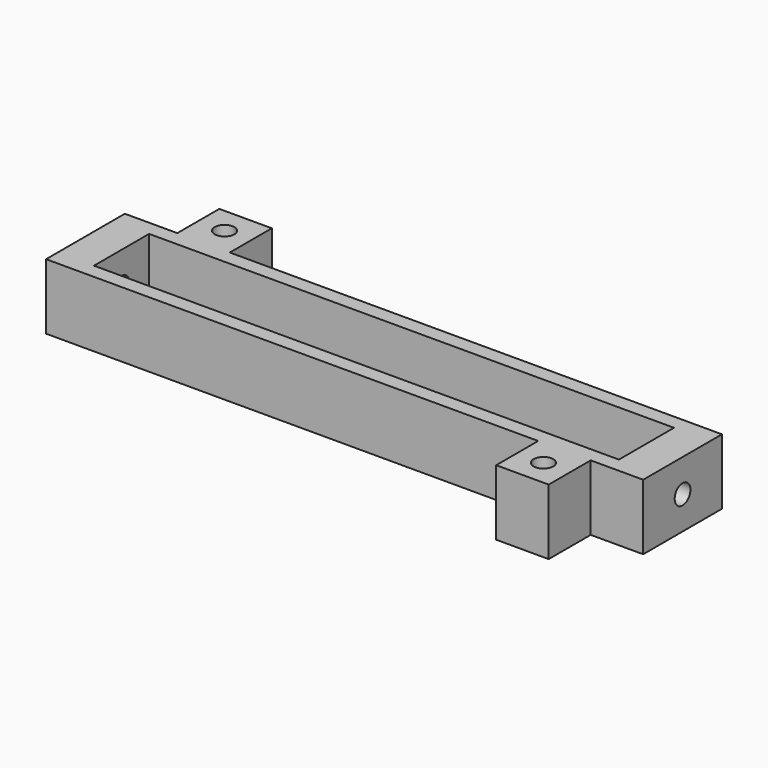
from build123d import *

# Parameters (mm, degrees)
PAD007_DEPTH    = 10
SKETCH016_R     = 1.5
SKETCH016_W     = 80
SKETCH016_H     = 10.5
POCKET008_DEPTH = 7
SKETCH017_W     = 9.5
SKETCH017_H     = 9.5
POCKET009_DEPTH = 2
SKETCH018_W     = 6
SKETCH018_H     = 6
POCKET010_DEPTH = 5
SKETCH019_R     = 1.5
POCKET011_DEPTH = 6
SKETCH020_R     = 1.5
POCKET012_DEPTH = 6


with BuildPart() as part:
    # Sketch015 → Pad007 (new body)
    with BuildSketch(Plane.XY):
        Polygon((45.5, 7.5), (45.5, -7.5), (37.5, -7.5), (37.5, -15.5), (29.5, -15.5), (29.5, -7.5), (-45.5, -7.5), (-45.5, 7.5), (-37.5, 7.5), (-37.5, 15.5), (-29.5, 15.5), (-29.5, 7.5), align=None)
    extrude(amount=PAD007_DEPTH)

    # Sketch016 (on Face14 of Pad007) → Pocket008 (cut)
    with BuildSketch(Plane.XY.offset(10)):
        with Locations((-33.5, 11.5)):
            Circle(SKETCH016_R)
        with Locations((33.5, -11.5)):
            Circle(SKETCH016_R)
        Rectangle(SKETCH016_W, SKETCH016_H)
    extrude(amount=-POCKET008_DEPTH, mode=Mode.SUBTRACT)

    # Sketch017 (on Face23 of Pocket008) → Pocket009 (cut)
    with BuildSketch(Plane.XY.offset(3)):
        Rectangle(SKETCH017_W, SKETCH017_H)
    extrude(amount=-POCKET009_DEPTH, mode=Mode.SUBTRACT)

    # Sketch018 (on Face28 of Pocket009) → Pocket010 (cut)
    with BuildSketch(Plane.XY.offset(1)):
        Rectangle(SKETCH018_W, SKETCH018_H)
    extrude(amount=-POCKET010_DEPTH, mode=Mode.SUBTRACT)

    # Sketch019 (on Face1 of Pocket010) → Pocket011 (cut)
    with BuildSketch(Plane.YZ.offset(45.5)):
        with Locations((0, 5)):
            Circle(SKETCH019_R)
    extrude(amount=-POCKET011_DEPTH, mode=Mode.SUBTRACT)

    # Sketch020 (on Face15 of Pocket011) → Pocket012 (cut)
    with BuildSketch(Plane(origin=(-45.5, 0, 0), x_dir=(0, -1, 0), z_dir=(-1, 0, 0))):
        with Locations((0, 5)):
            Circle(SKETCH020_R)
    extrude(amount=-POCKET012_DEPTH, mode=Mode.SUBTRACT)


solid = part.part
